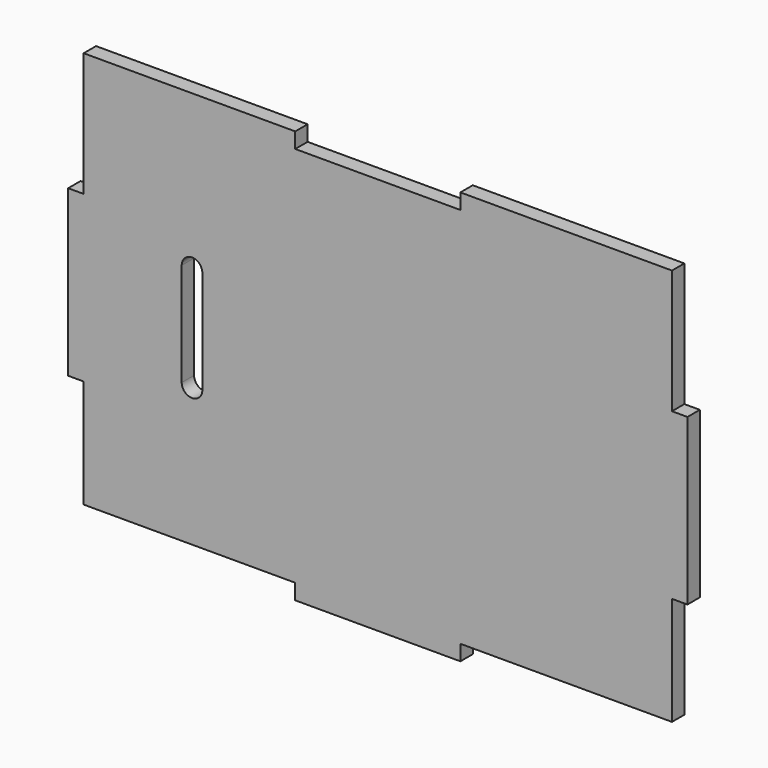
from build123d import *

# Parameters (mm, degrees)
F0_W     = 19.05
F0_H     = 203.2
F0_W_2   = 203.2
F0_H_2   = 19.05
F1_DEPTH = 19.05


with BuildPart() as f1:
    # F0 (on Front) → F1 (new body)
    with BuildSketch(Plane.XZ):
        with Locations((-434.523107, 137.960202)):
            Rectangle(F0_W, F0_H)
        Polygon((-164.648107, 391.960202), (-424.998107, 391.960202), (-424.998107, 239.560202), (-424.998107, 36.360202), (-424.998107, -96.989798), (-164.648107, -96.989798), (38.551893, -96.989798), (298.901893, -96.989798), (298.901893, 36.360202), (298.901893, 239.560202), (298.901893, 391.960202), (38.551893, 391.960202), (38.551893, 372.910202), (-164.648107, 372.910202), align=None)
        with BuildLine():
            ThreePointArc((-304.348107, 201.460202), (-291.648107, 214.160202), (-278.948107, 201.460202))
            ThreePointArc((-278.948107, 201.460202), (-278.961817, 200.870249), (-279.002917, 200.28157))
            Line((-279.002917, 200.28157), (-278.948108, 74.465734))
            ThreePointArc((-278.948108, 74.465734), (-278.948107, 74.462968), (-278.948107, 74.460202))
            ThreePointArc((-278.948107, 74.460202), (-291.648107, 61.760202), (-304.348107, 74.460202))
            Line((-304.348107, 74.460202), (-304.348107, 201.460202))
        make_face(mode=Mode.SUBTRACT)
        with Locations((308.426893, 137.960202)):
            Rectangle(F0_W, F0_H)
        with Locations((-63.048107, -106.514798)):
            Rectangle(F0_W_2, F0_H_2)
    extrude(amount=F1_DEPTH)


solid = f1.part
